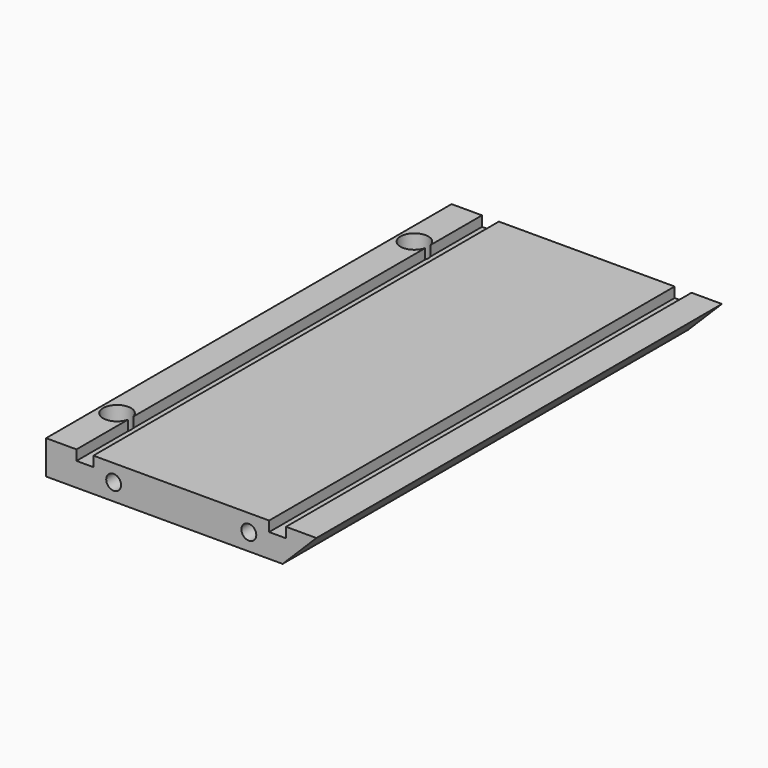
from build123d import *

# Parameters (mm, degrees)
F1_DEPTH       = 150
F3_D           = 4.4
F3_DEPTH       = 12
F3_TIP         = 1.3218933619
F5_D           = 4.4
F5_DEPTH       = 12
F5_TIP         = 1.3218933619
F6_W           = 5
F6_H           = 3
F7_DEPTH       = 150
F9_D           = 4.4
F9_DEPTH       = 14.1
F9_START       = 3
F9_CBORE_D     = 8.25
F9_CBORE_DEPTH = 4
F9_TIP         = 1.3218933619


with BuildPart() as f1:
    # F0 (on Front) → F1 (new body)
    with BuildSketch(Plane.XZ):
        Polygon((0, 10), (0, 0), (70, 0), (80, 10), align=None)
    extrude(amount=F1_DEPTH)

    # F3
    with Locations(Plane.XZ.offset(150)):
        with Locations((20, 5), (60, 5)):
            Hole(F3_D / 2, depth=F3_DEPTH)
            with Locations((0, 0, -(F3_DEPTH + F3_TIP / 2))):  # 118° drill point
                Cone(0, F3_D / 2, F3_TIP, mode=Mode.SUBTRACT)

    # F5
    with Locations(Plane(origin=(0, 0, 0), x_dir=(-1, 0, 0), z_dir=(0, 1, 0))):
        with Locations((-60, 5), (-20, 5)):
            Hole(F5_D / 2, depth=F5_DEPTH)
            with Locations((0, 0, -(F5_DEPTH + F5_TIP / 2))):  # 118° drill point
                Cone(0, F5_D / 2, F5_TIP, mode=Mode.SUBTRACT)

    # F6 (on face) → F7 (cut, through all)
    with BuildSketch(Plane(origin=(0, 0, 0), x_dir=(-1, 0, 0), z_dir=(0, 1, 0))):
        with Locations((-68.5, 8.5)):
            Rectangle(F6_W, F6_H)
        with Locations((-11.5, 8.5)):
            Rectangle(F6_W, F6_H)
    extrude(amount=-F7_DEPTH, mode=Mode.SUBTRACT)

    # F9
    # its depths count from where the whole tool has entered the part; down to there all is cleared
    with Locations(Plane.XY.offset(10).offset(-F9_START)):
        with Locations((5, -130), (5, -20)):
            CounterBoreHole(F9_D / 2, F9_CBORE_D / 2, F9_CBORE_DEPTH, depth=F9_DEPTH)
            with Locations((0, 0, -(F9_DEPTH + F9_TIP / 2))):  # 118° drill point
                Cone(0, F9_D / 2, F9_TIP, mode=Mode.SUBTRACT)


solid = f1.part
